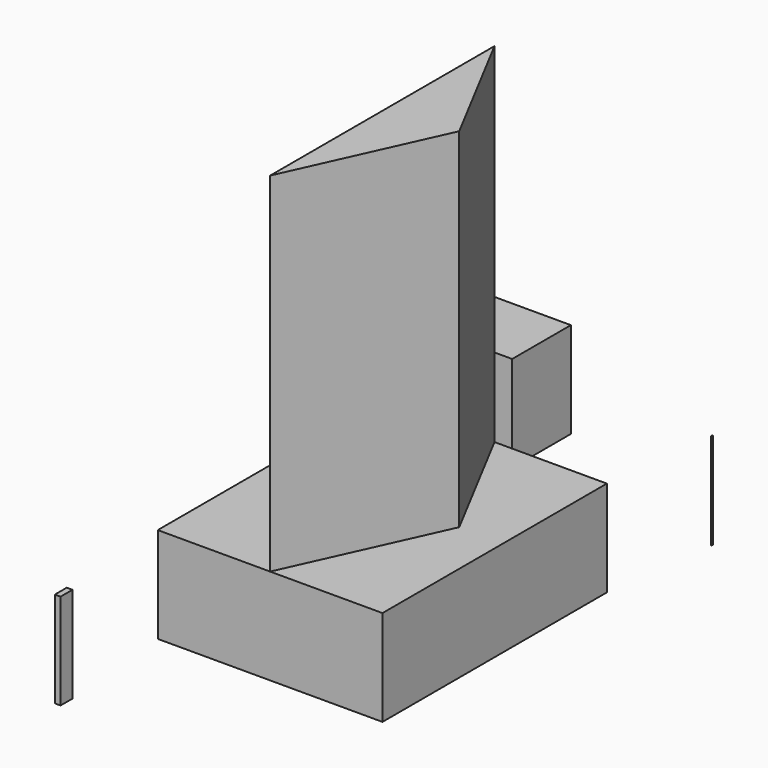
from build123d import *

# Parameters (mm, degrees)
F0_W     = 59.567481
F0_H     = 39.984807
F0_H_2   = 34.362406
F0_W_2   = 0.234723
F0_H_3   = 0.515759
F0_W_3   = 1.520488
F0_H_4   = 3.949255
F0_W_4   = 21.228462
F0_H_5   = 19.436843
F1_DEPTH = 25.4
F3_DEPTH = 92.408458


with BuildPart() as f1:
    # F0 (on Top) → F1 (new body)
    with BuildSketch(Plane.XY):
        with Locations((41.636705, -19.992403)):
            Rectangle(F0_W, F0_H)
        with Locations((41.636705, 17.181203)):
            Rectangle(F0_W, F0_H_2)
        with Locations((75.084671, 64.617418)):
            Rectangle(F0_W_2, F0_H_3)
        with Locations((14.028238, -73.897451)):
            Rectangle(F0_W_3, F0_H_4)
        with Locations((10.614231, 75.453307)):
            Rectangle(F0_W_4, F0_H_5)
        with Locations((41.636705, -19.992403)):
            Rectangle(F0_W, F0_H)
    extrude(amount=F1_DEPTH)

    # F2 (on face) → F3 (join)
    with BuildSketch(Plane.XY.offset(25.4)):
        Polygon((41.636705, 34.362406), (41.636705, -39.984807), (59.776627, 0), align=None)
    extrude(amount=F3_DEPTH)


solid = f1.part
